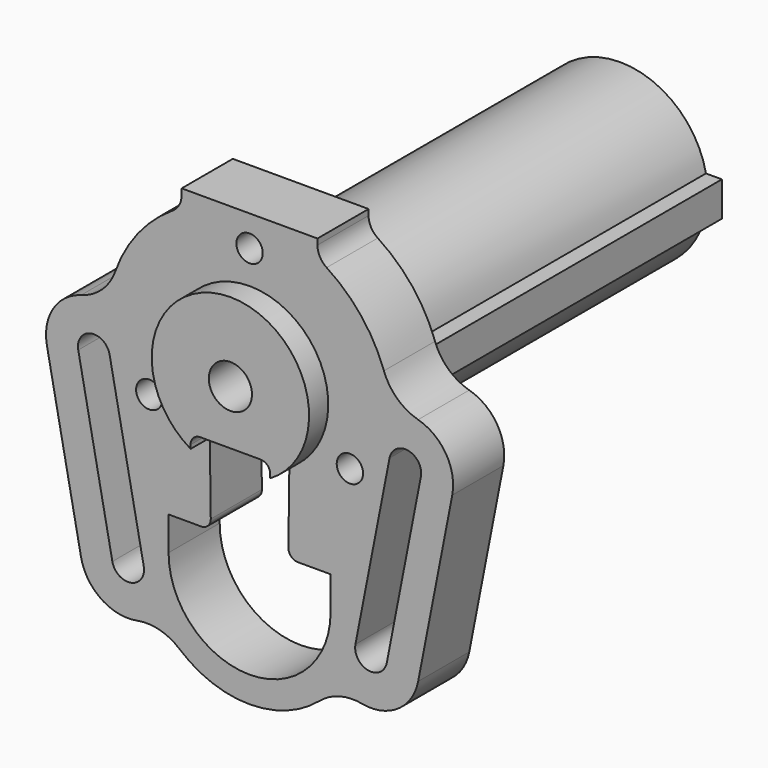
from build123d import *

# Parameters (mm, degrees)
F1_DEPTH  = 8
F2_R      = 9.85
F3_DEPTH  = 3
F5_DEPTH  = 50
F6_R      = 2.7
F7_DEPTH  = 61
F8_R      = 3
F8_R_2    = 1.65
F9_DEPTH  = 3.3
F10_DEPTH = 25
F11_DEPTH = 25
F12_DEPTH = 25
F15_DEPTH = 61.001


with BuildPart() as f1:
    # F0 (on Front) → F1 (new body)
    with BuildSketch(Plane.XZ):
        with BuildLine():
            ThreePointArc((21.0969540743, 1.9835702793), (18.4718439184, 3.4572581024), (16.8204946757, 5.9744002934))
            ThreePointArc((16.8204946757, 5.9744002934), (13.9856503791, 11.0916222201), (9.6486486486, 15.0175257368))
            ThreePointArc((9.6486486486, 15.0175257368), (8.805873935, 15.9225674247), (8.5, 17.1208206579))
            Line((8.5, 17.1208206579), (8.5, 17.85))
            Line((8.5, 17.85), (0, 17.85))
            Line((0, 17.85), (-8.5, 17.85))
            Line((-8.5, 17.85), (-8.5, 17.1208206579))
            ThreePointArc((-8.5, 17.1208206579), (-8.805873935, 15.9225674247), (-9.6486486486, 15.0175257368))
            ThreePointArc((-9.6486486486, 15.0175257368), (-13.9856503791, 11.0916222201), (-16.8204946757, 5.9744002934))
            ThreePointArc((-16.8204946757, 5.9744002934), (-18.4718439184, 3.4572581024), (-21.0969540743, 1.9835702793))
            ThreePointArc((-21.0969540743, 1.9835702793), (-24.5891766283, -0.6435628298), (-25.3730516414, -4.9427472527))
            Line((-25.3730516414, -4.9427472527), (-21.10331181, -26.860989011))
            ThreePointArc((-21.10331181, -26.860989011), (-18.5752648191, -30.6838472237), (-14.0859973304, -31.6067469569))
            ThreePointArc((-14.0859973304, -31.6067469569), (-11.2665542119, -31.7051253732), (-8.7679800751, -33.0151120502))
            ThreePointArc((-8.7679800751, -33.0151120502), (0, -36.25), (8.7679800751, -33.0151120502))
            ThreePointArc((8.7679800751, -33.0151120502), (11.2665542119, -31.7051253732), (14.0859973304, -31.6067469569))
            ThreePointArc((14.0859973304, -31.6067469569), (18.5752648191, -30.6838472237), (21.10331181, -26.860989011))
            Line((21.10331181, -26.860989011), (25.3730516414, -4.9427472527))
            ThreePointArc((25.3730516414, -4.9427472527), (24.5891766283, -0.6435628298), (21.0969540743, 1.9835702793))
        make_face()
        with BuildLine():
            ThreePointArc((-21.4468540953, -4.1779120879), (-19.8661729047, -1.8323957325), (-17.5206565493, -3.4130769231))
            Line((-17.5206565493, -3.4130769231), (-13.2509167179, -25.3313186813))
            ThreePointArc((-13.2509167179, -25.3313186813), (-14.8315979085, -27.6768350368), (-17.177114264, -26.0961538462))
            Line((-17.177114264, -26.0961538462), (-21.4468540953, -4.1779120879))
        make_face(mode=Mode.SUBTRACT)
        with BuildLine():
            ThreePointArc((17.177114264, -26.0961538462), (14.8315979085, -27.6768350368), (13.2509167179, -25.3313186813))
            Line((13.2509167179, -25.3313186813), (17.5206565493, -3.4130769231))
            ThreePointArc((17.5206565493, -3.4130769231), (19.8661729047, -1.8323957325), (21.4468540953, -4.1779120879))
            Line((21.4468540953, -4.1779120879), (17.177114264, -26.0961538462))
        make_face(mode=Mode.SUBTRACT)
    extrude(amount=F1_DEPTH)

    # F2 (on face) → F3 (join)
    with BuildSketch(Plane.XZ.offset(8)):
        Circle(F2_R)
    extrude(amount=F3_DEPTH)

    # F4 (on face) → F5 (join)
    with BuildSketch(Plane(origin=(0, 0, 0), x_dir=(-1, 0, 0), z_dir=(0, 1, 0))):
        with BuildLine():
            Line((-12.73, -2.17), (-10.7328281455, -2.17))
            ThreePointArc((-10.7328281455, -2.17), (0, -10.95), (10.7328281455, -2.17))
            Line((10.7328281455, -2.17), (12.73, -2.17))
            Line((12.73, -2.17), (12.73, 2.17))
            Line((12.73, 2.17), (10.7328281455, 2.17))
            ThreePointArc((10.7328281455, 2.17), (0, 10.95), (-10.7328281455, 2.17))
            Line((-10.7328281455, 2.17), (-12.73, 2.17))
            Line((-12.73, 2.17), (-12.73, -2.17))
        make_face()
    extrude(amount=F5_DEPTH)

    # F6 (on face) → F7 (cut, through all)
    with BuildSketch(Plane.XZ.offset(11)):
        Circle(F6_R)
        Circle(F6_R)
    extrude(amount=-F7_DEPTH, mode=Mode.SUBTRACT)

    # F8 (on face) → F9 (cut)
    with BuildSketch(Plane(origin=(0, 0, 0), x_dir=(-1, 0, 0), z_dir=(0, 1, 0))):
        with Locations((0, 14)):
            Circle(F8_R)
        with Locations((0, 14)):
            Circle(F8_R_2, mode=Mode.SUBTRACT)
        with Locations((-12.5570375793, -6.1903802172)):
            Circle(F8_R)
        with Locations((-12.5570375793, -6.1903802172)):
            Circle(F8_R_2, mode=Mode.SUBTRACT)
        with Locations((12.5570375793, -6.1903802172)):
            Circle(F8_R)
        with Locations((12.5570375793, -6.1903802172)):
            Circle(F8_R_2, mode=Mode.SUBTRACT)
    extrude(amount=-F9_DEPTH, mode=Mode.SUBTRACT)

    # F10 (cut): a face of the model
    f10_faces = [f1.faces().sort_by_distance(p)[0] for p in [
        (-12.5570375793, 0, -6.1903802172),
    ]]
    extrude(f10_faces, amount=-F10_DEPTH, mode=Mode.SUBTRACT)

    # F11 (cut): a face of the model
    f11_faces = [f1.faces().sort_by_distance(p)[0] for p in [
        (0, 0, 14),
    ]]
    extrude(f11_faces, amount=-F11_DEPTH, mode=Mode.SUBTRACT)

    # F12 (cut): a face of the model
    f12_faces = [f1.faces().sort_by_distance(p)[0] for p in [
        (12.5570375793, 0, -6.1903802172),
    ]]
    extrude(f12_faces, amount=-F12_DEPTH, mode=Mode.SUBTRACT)

    # F14 (on offset) → F15 (cut, through all)
    with BuildSketch(Plane.XZ.offset(-50)):
        with BuildLine():
            ThreePointArc((-4.8577252987, -17.4038723234), (-5.2034058164, -18.2628068545), (-6.057616918, -18.62))
            Line((-6.057616918, -18.62), (-10.14, -18.62))
            Line((-10.14, -18.62), (-10.14, -22.84))
            ThreePointArc((-10.14, -22.84), (0, -32.98), (10.14, -22.84))
            Line((10.14, -22.84), (10.14, -18.62))
            Line((10.14, -18.62), (6.057616918, -18.62))
            ThreePointArc((6.057616918, -18.62), (5.2034058164, -18.2628068545), (4.8577252987, -17.4038723234))
            Line((4.8577252987, -17.4038723234), (4.9836540955, -8.0348285577))
            ThreePointArc((4.9836540955, -8.0348285577), (4.6379735777, -7.1758940266), (3.7837624762, -6.8187008811))
            Line((3.7837624762, -6.8187008811), (0, -6.8187008811))
            Line((0, -6.8187008811), (-3.7837624762, -6.8187008811))
            ThreePointArc((-3.7837624762, -6.8187008811), (-4.6379735777, -7.1758940266), (-4.9836540955, -8.0348285577))
            Line((-4.9836540955, -8.0348285577), (-4.8577252987, -17.4038723234))
        make_face()
    extrude(amount=F15_DEPTH, mode=Mode.SUBTRACT)


solid = f1.part
